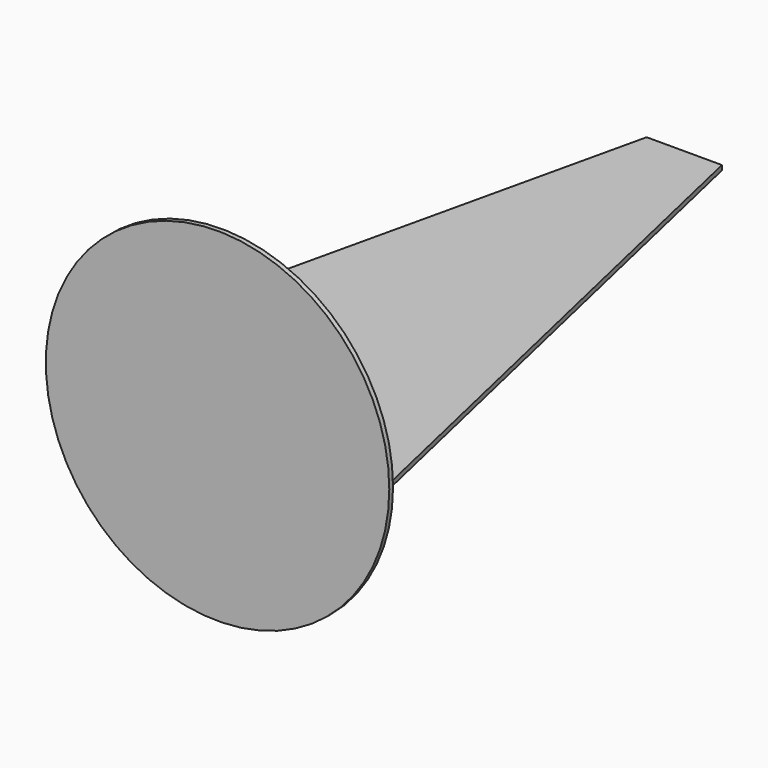
from build123d import *

# Parameters (mm, degrees)
F0_R     = 231.775
F1_DEPTH = 6.35
F3_DEPTH = 6.35


with BuildPart() as f1:
    # F0 (on Front) → F1 (new body)
    with BuildSketch(Plane.XZ):
        Circle(F0_R)
    extrude(amount=-F1_DEPTH)

    # F2 (on Top) → F3 (join)
    with BuildSketch(Plane.XY):
        Polygon((-230.904803, 0), (0, 0), (0, 787.4), (-50.8, 787.4), align=None)
        Polygon((0, 787.4), (0, 0), (231.379524, 0), (50.8, 787.4), align=None)
    extrude(amount=F3_DEPTH)


solid = f1.part
